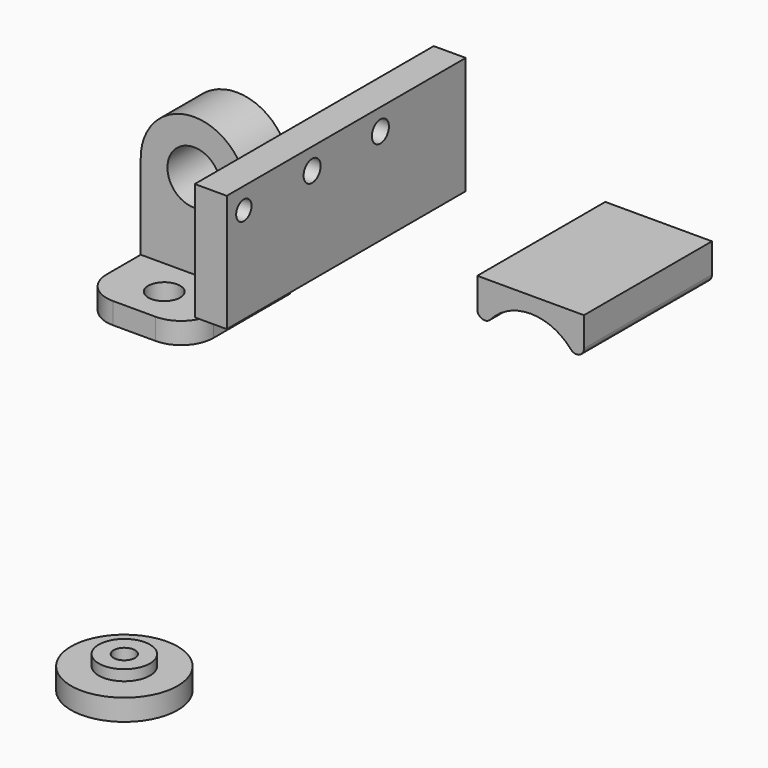
from build123d import *

# Parameters (mm, degrees)
F0_R      = 2.5
F1_DEPTH  = 5
F2_W      = 10
F2_H      = 7
F3_DEPTH  = 2
F4_D      = 3
F5_R      = 3
F6_W      = 3
F6_H      = 11
F7_DEPTH  = 28
F8_W      = 2
F8_H      = 5
F9_DEPTH  = 2
F10_D     = 2
F11_D     = 1.8
F13_DEPTH = 15
F14_R     = 0.7
F15_R     = 5
F16_DEPTH = 2
F17_R     = 2.4
F18_DEPTH = 1
F19_D     = 2


with BuildPart() as f1:
    # F0 (on Front) → F1 (new body)
    with BuildSketch(Plane.XZ):
        with BuildLine():
            ThreePointArc((8.2193245501, 10), (13.2193245501, 5), (18.2193245501, 10))
            ThreePointArc((18.2193245501, 10), (13.2193245501, 15), (8.2193245501, 10))
        make_face()
        with Locations((13.2193245501, 10)):
            Circle(F0_R, mode=Mode.SUBTRACT)
        with BuildLine():
            Line((18.2193245501, 0), (18.2193245501, 10))
            ThreePointArc((18.2193245501, 10), (13.2193245501, 5), (8.2193245501, 10))
            Line((8.2193245501, 10), (8.2193245501, 0))
            Line((8.2193245501, 0), (18.2193245501, 0))
        make_face()
    extrude(amount=F1_DEPTH)

    # F2 (on face) → F3 (join)
    with BuildSketch(Plane(origin=(0, 0, 0), x_dir=(1, 0, 0), z_dir=(0, 0, -1))):
        with Locations((13.2193245501, 8.5)):
            Rectangle(F2_W, F2_H)
    extrude(amount=-F3_DEPTH)

    # F4 (through all)
    with Locations(Plane(origin=(0, 0, 0), x_dir=(1, 0, 0), z_dir=(0, 0, -1))):
        with Locations((13.2193245501, 8.5)):
            Hole(F4_D / 2)

    # F5
    f5_edges = [f1.edges().sort_by_distance(p)[0] for p in [
        (18.219325, -12, 1),
        (8.219325, -12, 1),
    ]]
    fillet(f5_edges, radius=F5_R)


with BuildPart() as f7:
    # F6 (on Front) → F7 (new body)
    with BuildSketch(Plane.XZ):
        with Locations((33.1831105284, 19.3150802515)):
            Rectangle(F6_W, F6_H)
    extrude(amount=F7_DEPTH)

    # F8 (on face) → F9 (cut)
    with BuildSketch(Plane(origin=(31.6831105284, 0, 0), x_dir=(0, -1, 0), z_dir=(-1, 0, 0))):
        with Locations((1, 16.3150802515)):
            Rectangle(F8_W, F8_H)
    extrude(amount=-F9_DEPTH, mode=Mode.SUBTRACT)

    # F10 (through all)
    with Locations(Plane(origin=(31.6831105284, 0, 0), x_dir=(0, -1, 0), z_dir=(-1, 0, 0))):
        with Locations((10, 22.8150802515), (18, 22.8150802515)):
            Hole(F10_D / 2)

    # F11 (through all)
    with Locations(Plane(origin=(31.6831105284, 0, 0), x_dir=(0, -1, 0), z_dir=(-1, 0, 0))):
        with Locations((26, 22.8150802515)):
            Hole(F11_D / 2)


with BuildPart() as f13:
    # F12 (on Front) → F13 (new body)
    with BuildSketch(Plane.XZ):
        with BuildLine():
            Line((52.7637679825, 15.6870161557), (47.7637679825, 15.6870161557))
            Line((47.7637679825, 15.6870161557), (47.7637679825, 10.6870161557))
            ThreePointArc((47.7637679825, 10.6870161557), (49.2282340766, 14.2225500616), (52.7637679825, 15.6870161557))
        make_face()
        Polygon((57.7637679825, 17.1870161557), (47.7637679825, 17.1870161557), (47.7637679825, 15.6870161557), (52.7637679825, 15.6870161557), (57.7637679825, 15.6870161557), align=None)
        with BuildLine():
            Line((57.7637679825, 10.6870161557), (57.7637679825, 15.6870161557))
            Line((57.7637679825, 15.6870161557), (52.7637679825, 15.6870161557))
            ThreePointArc((52.7637679825, 15.6870161557), (56.2993018884, 14.2225500616), (57.7637679825, 10.6870161557))
        make_face()
    extrude(amount=F13_DEPTH)

    # F14
    f14_edges = [f13.edges().sort_by_distance(p)[0] for p in [
        (47.763768, -7.5, 10.687016),
        (57.763768, -7.5, 10.687016),
    ]]
    fillet(f14_edges, radius=F14_R)


with BuildPart() as f16:
    # F15 (on Top) → F16 (new body)
    with BuildSketch(Plane.XY):
        with Locations((48.0265580118, -56.6801726818)):
            Circle(F15_R)
    extrude(amount=F16_DEPTH)

    # F17 (on face) → F18 (join)
    with BuildSketch(Plane.XY.offset(2)):
        with Locations((48.0265580118, -56.6801726818)):
            Circle(F17_R)
    extrude(amount=F18_DEPTH)

    # F19 (through all)
    with Locations(Plane(origin=(0, 0, 0), x_dir=(1, 0, 0), z_dir=(0, 0, -1))):
        with Locations((48.0265580118, 56.6801726818)):
            Hole(F19_D / 2)


solid = Compound([f1.part, f7.part, f13.part, f16.part])
